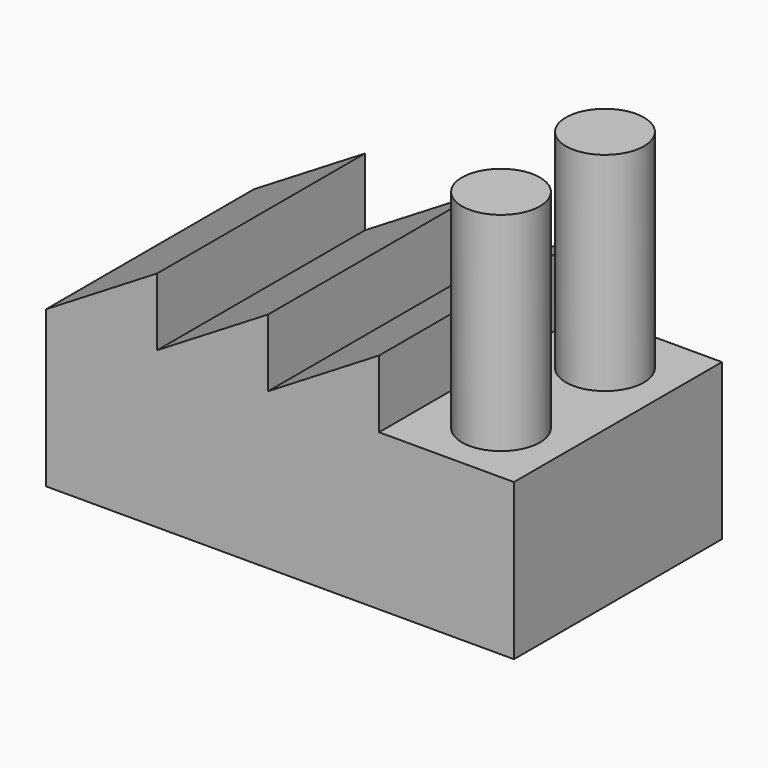
from build123d import *

# Parameters (mm, degrees)
F1_DEPTH = 12.7
F2_R     = 1.905
F3_DEPTH = 10.16


with BuildPart() as f1:
    # F0 (on Front) → F1 (new body)
    with BuildSketch(Plane.XZ):
        Polygon((0, 8.854078), (0, 1.234078), (22.86, 1.234078), (22.86, 8.854078), (16.271867, 8.854078), (10.847912, 8.854078), (5.423956, 8.854078), align=None)
        Polygon((5.423956, 12.156078), (0, 8.854078), (5.423956, 8.854078), align=None)
        Polygon((10.847912, 12.156078), (5.423956, 8.854078), (10.847912, 8.854078), align=None)
        Polygon((10.847912, 8.854078), (16.271867, 8.854078), (16.271867, 12.156078), align=None)
    extrude(amount=F1_DEPTH)

    # F2 (on face) → F3 (join)
    with BuildSketch(Plane.XY.offset(8.854078)):
        with Locations((19.685, -3.175)):
            Circle(F2_R)
        with Locations((19.685, -9.525)):
            Circle(F2_R)
    extrude(amount=F3_DEPTH)


solid = f1.part
